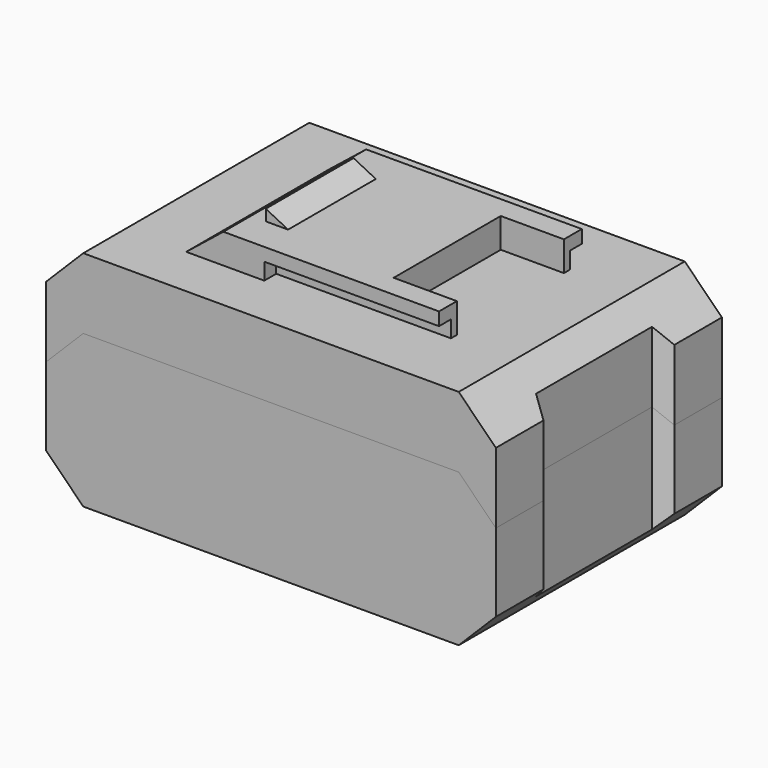
from build123d import *

# Parameters (mm, degrees)
SKETCH_W             = 121
SKETCH_H             = 76
PAD_DEPTH            = 60
POCKET_DEPTH         = 76.001
PAD001_DEPTH         = 24
SKETCH003_W          = 4
SKETCH003_H          = 4.5
POCKET001_DEPTH      = 47
SKETCH004_W          = 36
SKETCH004_H          = 8
POCKET002_DEPTH      = 17
PAD002_DEPTH         = 14.75
POCKET003_DEPTH      = 0.001
POCKET003_DEPTH_BACK = -71.001
SKETCH007_W          = 121
SKETCH007_H          = 76
PAD003_DEPTH         = 41
POCKET004_DEPTH      = 76.001
PAD004_DEPTH         = 24
SKETCH010_W          = 4
SKETCH010_H          = 4.5
POCKET005_DEPTH      = 47
SKETCH011_W          = 36
SKETCH011_H          = 8
POCKET006_DEPTH      = 17
PAD005_DEPTH         = 14.75
POCKET007_DEPTH      = 0.001
POCKET007_DEPTH_BACK = -52.001


with BuildPart() as obj1:
    # Sketch → Pad (new body)
    with BuildSketch(Plane.XY):
        Rectangle(SKETCH_W, SKETCH_H)
    extrude(amount=PAD_DEPTH)

    # Sketch001 (on Face3 of Pad) → Pocket (cut, through all)
    with BuildSketch(Plane.XZ.offset(38)):
        Polygon((-60.5, 10), (-60.5, 0), (-50.5, 0), align=None)
        Polygon((50.5, 0), (60.5, 0), (60.5, 10), align=None)
        Polygon((60.5, 60), (50.5, 60), (60.5, 50), align=None)
        Polygon((-60.5, 60), (-60.5, 50), (-50.5, 60), align=None)
    extrude(amount=-POCKET_DEPTH, mode=Mode.SUBTRACT)

    # Sketch002 → Pad001 (join, symmetric)
    with BuildSketch(Plane.XZ):
        Polygon((-24, 68), (-34, 60), (34, 60), (34, 68), align=None)
    extrude(amount=PAD001_DEPTH, both=True)

    # Sketch003 (on Face13 of Pad001) → Pocket001 (cut)
    with BuildSketch(Plane.YZ.offset(34)):
        with Locations((-22, 62.25)):
            Rectangle(SKETCH003_W, SKETCH003_H)
        with Locations((22, 62.25)):
            Rectangle(SKETCH003_W, SKETCH003_H)
    extrude(amount=-POCKET001_DEPTH, mode=Mode.SUBTRACT)

    # Sketch004 (on Face15 of Pocket001) → Pocket002 (cut)
    with BuildSketch(Plane.YZ.offset(34)):
        with Locations((0, 64)):
            Rectangle(SKETCH004_W, SKETCH004_H)
    extrude(amount=-POCKET002_DEPTH, mode=Mode.SUBTRACT)

    # Sketch005 → Pad002 (join, symmetric)
    with BuildSketch(Plane.XZ):
        Polygon((-20, 68), (-14, 68), (-20, 71), align=None)
    extrude(amount=PAD002_DEPTH, both=True)

    # Sketch006 → Pocket003 (cut, two sides)
    with BuildSketch(Plane.XY) as pocket003_sk:
        Polygon((60.5, 22), (56.5, 19.5), (56.5, -19.5), (60.5, -22), align=None)
    extrude(amount=-POCKET003_DEPTH, mode=Mode.SUBTRACT)
    extrude(pocket003_sk.sketch, amount=-POCKET003_DEPTH_BACK, mode=Mode.SUBTRACT)


with BuildPart() as obj2:
    # Sketch007 → Pad003 (new body)
    with BuildSketch(Plane.XY):
        Rectangle(SKETCH007_W, SKETCH007_H)
    extrude(amount=PAD003_DEPTH)

    # Sketch008 (on Face3 of Pad003) → Pocket004 (cut, through all)
    with BuildSketch(Plane.XZ.offset(38)):
        Polygon((-60.5, 10), (-60.5, 0), (-50.5, 0), align=None)
        Polygon((50.5, 0), (60.5, 0), (60.5, 10), align=None)
        Polygon((60.5, 41), (50.5, 41), (60.5, 31), align=None)
        Polygon((-60.5, 41), (-60.5, 31), (-50.5, 41), align=None)
    extrude(amount=-POCKET004_DEPTH, mode=Mode.SUBTRACT)

    # Sketch009 → Pad004 (join, symmetric)
    with BuildSketch(Plane.XZ):
        Polygon((-24, 49), (-34, 41), (34, 41), (34, 49), align=None)
    extrude(amount=PAD004_DEPTH, both=True)

    # Sketch010 (on Face13 of Pad004) → Pocket005 (cut)
    with BuildSketch(Plane.YZ.offset(34)):
        with Locations((-22, 43.25)):
            Rectangle(SKETCH010_W, SKETCH010_H)
        with Locations((22, 43.25)):
            Rectangle(SKETCH010_W, SKETCH010_H)
    extrude(amount=-POCKET005_DEPTH, mode=Mode.SUBTRACT)

    # Sketch011 (on Face15 of Pocket005) → Pocket006 (cut)
    with BuildSketch(Plane.YZ.offset(34)):
        with Locations((0, 45)):
            Rectangle(SKETCH011_W, SKETCH011_H)
    extrude(amount=-POCKET006_DEPTH, mode=Mode.SUBTRACT)

    # Sketch012 → Pad005 (join, symmetric)
    with BuildSketch(Plane.XZ):
        Polygon((-20, 49), (-14, 49), (-20, 52), align=None)
    extrude(amount=PAD005_DEPTH, both=True)

    # Sketch013 → Pocket007 (cut, two sides)
    with BuildSketch(Plane.XY) as pocket007_sk:
        Polygon((60.5, 22), (56.5, 19.5), (56.5, -19.5), (60.5, -22), align=None)
    extrude(amount=-POCKET007_DEPTH, mode=Mode.SUBTRACT)
    extrude(pocket007_sk.sketch, amount=-POCKET007_DEPTH_BACK, mode=Mode.SUBTRACT)


solid = Compound([obj1.part, obj2.part])
